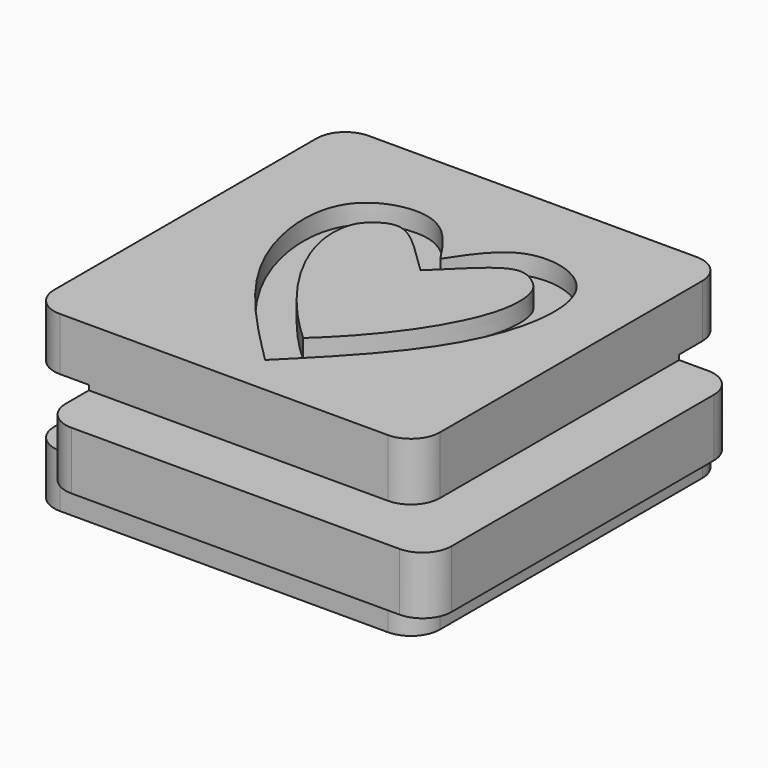
from build123d import *

# Parameters (mm, degrees)
F0_W     = 14
F0_H     = 3
F0_W_2   = 3
F1_DEPTH = 20
F2_DEPTH = 3
F3_W     = 3
F3_H     = 3
F4_DEPTH = 100
F5_W     = 3
F5_H     = 3.5
F6_DEPTH = 100
F7_R     = 1.5
F9_DEPTH = 1


with BuildPart() as f1:
    # F0 (on Front) → F1 (new body)
    with BuildSketch(Plane.XZ):
        Polygon((10, 1.5), (10, 4.5), (-10, 4.5), (-10, 1.5), (-7, 1.5), (7, 1.5), align=None)
        Rectangle(F0_W, F0_H)
        with Locations((11.5, 0)):
            Rectangle(F0_W_2, F0_H)
        with Locations((8.5, 0)):
            Rectangle(F0_W_2, F0_H)
        with Locations((-8.5, 0)):
            Rectangle(F0_W_2, F0_H)
        Polygon((10, -4.5), (10, -1.5), (7, -1.5), (-7, -1.5), (-10, -1.5), (-10, -4.5), align=None)
    extrude(amount=-F1_DEPTH)

    # F0 (on Front) → F2 (join)
    with BuildSketch(Plane.XZ):
        with Locations((-8.5, 0)):
            Rectangle(F0_W_2, F0_H)
        Rectangle(F0_W, F0_H)
        with Locations((8.5, 0)):
            Rectangle(F0_W_2, F0_H)
        with Locations((11.5, 0)):
            Rectangle(F0_W_2, F0_H)
    extrude(amount=F2_DEPTH)

    # F3 (on face) → F4 (cut)
    with BuildSketch(Plane.YZ.offset(13)):
        Polygon((23, -1.75), (23, 1.75), (17, 1.75), (17, 1.5), (20, 1.5), (20, -1.5), (17, -1.5), (17, -1.75), align=None)
        with Locations((18.5, 0)):
            Rectangle(F3_W, F3_H)
    extrude(amount=-F4_DEPTH, mode=Mode.SUBTRACT)

    # F5 (on face) → F6 (cut)
    with BuildSketch(Plane(origin=(0, 17, 0), x_dir=(-1, 0, 0), z_dir=(0, 1, 0))):
        with Locations((11.5, 0)):
            Rectangle(F5_W, F5_H)
        with Locations((8.5, 0)):
            Rectangle(F5_W, F5_H)
    extrude(amount=-F6_DEPTH, mode=Mode.SUBTRACT)

    # F7
    f7_edges = [f1.edges().sort_by_distance(p)[0] for p in [
        (-7, -3, 0),
        (13, -3, 0),
        (10, 0, 3),
        (10, 0, -3),
        (-10, 0, -3.125),
        (-10, 0, 3.125),
        (-7, 17, 0),
        (-10, 20, 3.125),
        (-10, 20, -3.125),
        (13, 17, 0),
        (10, 20, 3.125),
        (10, 20, -3.125),
    ]]
    fillet(f7_edges, radius=F7_R)

    # F8 (on face) → F9 (cut)
    with BuildSketch(Plane.XY.offset(4.5)):
        with BuildLine():
            Line((0.5079321563, 12.6308239996), (0.5079321563, 13.3923562244))
            add(Edge.make_bspline(
                [(0.5079321563, 13.3923562244), (-0.2042453086, 14.4841945601), (-1.6194856249, 16.653897794), (-6.4925619551, 15.4160387293), (-5.8372524097, 8.372899764), (-1.7703990856, 4.3107311976), (0.5079321563, 2.0350255072)],
                knots=[0, 0, 0, 0, 0.2063930363, 0.4101447224, 0.6695517086, 1, 1, 1, 1], degree=3))
            Line((0.5079321563, 2.0350255072), (0.5079321563, 3.2167136669))
            add(Edge.make_bspline(
                [(0.5079321563, 12.6308239996), (-0.2166217589, 13.5477579815), (-1.4496563968, 15.1081819987), (-3.2014964515, 15.467028439), (-5.0022320005, 14.3189482089), (-5.3079861121, 11.6387311218), (-3.4341416808, 7.1131911239), (-0.8432740412, 4.5522916121), (0.5079321563, 3.2167136669)],
                knots=[0, 0, 0, 0, 0.169604223, 0.2886298612, 0.4171601384, 0.5655007654, 0.7733969919, 1, 1, 1, 1], degree=3))
        make_face()
        with BuildLine():
            add(Edge.make_bspline(
                [(0.5079321563, 13.3923562244), (1.2201096213, 14.4841945601), (2.6353499375, 16.653897794), (7.5084262677, 15.4160387293), (6.8531167223, 8.372899764), (2.7862633983, 4.3107311976), (0.5079321563, 2.0350255072)],
                knots=[0, 0, 0, 0, 0.2063930363, 0.4101447224, 0.6695517086, 1, 1, 1, 1], degree=3))
            Line((0.5079321563, 13.3923562244), (0.5079321563, 12.6308239996))
            add(Edge.make_bspline(
                [(0.5079321563, 12.6308239996), (1.2324860716, 13.5477579815), (2.4655207094, 15.1081819987), (4.2173607642, 15.467028439), (6.0180963131, 14.3189482089), (6.3238504248, 11.6387311218), (4.4500059934, 7.1131911239), (1.8591383538, 4.5522916121), (0.5079321563, 3.2167136669)],
                knots=[0, 0, 0, 0, 0.169604223, 0.2886298612, 0.4171601384, 0.5655007654, 0.7733969919, 1, 1, 1, 1], degree=3))
            Line((0.5079321563, 3.2167136669), (0.5079321563, 2.0350255072))
        make_face()
        with BuildLine():
            add(Edge.make_bspline(
                [(0.5079321563, 12.6308239996), (1.2324860716, 13.5477579815), (2.4655207094, 15.1081819987), (4.2173607642, 15.467028439), (6.0180963131, 14.3189482089), (6.3238504248, 11.6387311218), (4.4500059934, 7.1131911239), (1.8591383538, 4.5522916121), (0.5079321563, 3.2167136669)],
                knots=[0, 0, 0, 0, 0.169604223, 0.2886298612, 0.4171601384, 0.5655007654, 0.7733969919, 1, 1, 1, 1], degree=3))
            Line((0.5079321563, 12.6308239996), (0.5079321563, 12.1036916971))
            add(Edge.make_bspline(
                [(0.5079321563, 12.1036916971), (0.9845350772, 12.5783972914), (1.9182678659, 13.5084136695), (3.5364426534, 14.9021637489), (4.7681552632, 14.1418940477), (5.3308142058, 13.4027101407), (5.4419389667, 11.3924890124), (3.9669526492, 8.2792374371), (1.784815358, 5.6918019484), (0.880360239, 4.8502334126), (0.5079321563, 4.5036990196)],
                knots=[0, 0, 0, 0, 0.1285135055, 0.2517762593, 0.348617425, 0.4320442691, 0.5523455091, 0.7197270075, 0.8845921433, 1, 1, 1, 1], degree=3))
            Line((0.5079321563, 4.5036990196), (0.5079321563, 3.2167136669))
        make_face()
        with BuildLine():
            Line((0.5079321563, 12.1036916971), (0.5079321563, 12.6308239996))
            add(Edge.make_bspline(
                [(0.5079321563, 12.6308239996), (-0.2166217589, 13.5477579815), (-1.4496563968, 15.1081819987), (-3.2014964515, 15.467028439), (-5.0022320005, 14.3189482089), (-5.3079861121, 11.6387311218), (-3.4341416808, 7.1131911239), (-0.8432740412, 4.5522916121), (0.5079321563, 3.2167136669)],
                knots=[0, 0, 0, 0, 0.169604223, 0.2886298612, 0.4171601384, 0.5655007654, 0.7733969919, 1, 1, 1, 1], degree=3))
            Line((0.5079321563, 3.2167136669), (0.5079321563, 4.5036990196))
            add(Edge.make_bspline(
                [(0.5079321563, 12.1036916971), (0.0313292355, 12.5783972914), (-0.9024035532, 13.5084136695), (-2.5205783407, 14.9021637489), (-3.7522909505, 14.1418940477), (-4.3149498931, 13.4027101407), (-4.426074654, 11.3924890124), (-2.9510883366, 8.2792374371), (-0.7689510454, 5.6918019484), (0.1355040736, 4.8502334126), (0.5079321563, 4.5036990196)],
                knots=[0, 0, 0, 0, 0.1285135055, 0.2517762593, 0.348617425, 0.4320442691, 0.5523455091, 0.7197270075, 0.8845921433, 1, 1, 1, 1], degree=3))
        make_face()
    extrude(amount=-F9_DEPTH, mode=Mode.SUBTRACT)


solid = f1.part
